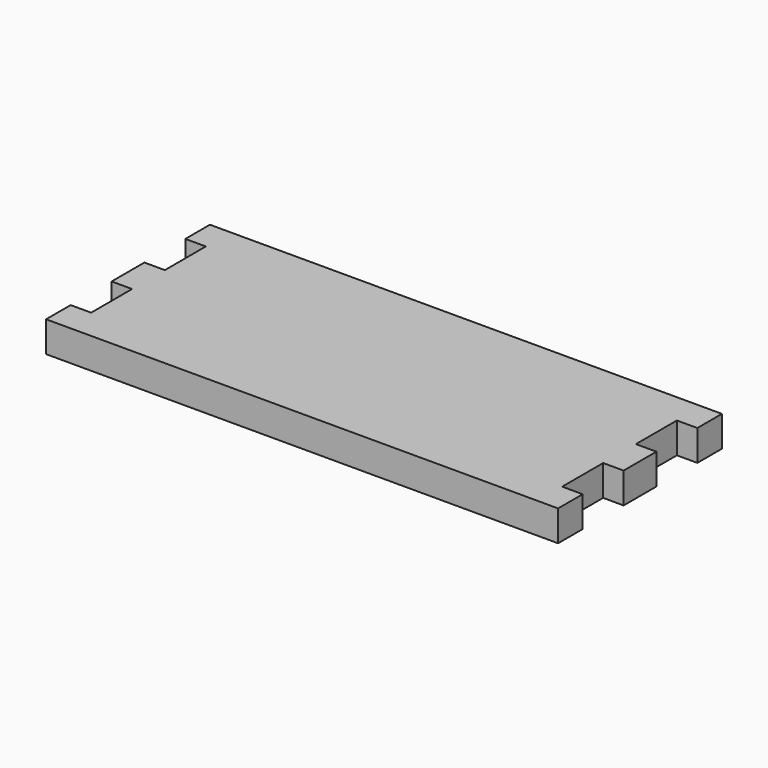
from build123d import *

# Parameters (mm, degrees)
F1_DEPTH = 3


with BuildPart() as f1:
    # F0 (on Top) → F1 (new body)
    with BuildSketch(Plane.XY):
        Polygon((25, 7), (25, 10), (-25, 10), (-25, 7), (-23, 7), (-23, 2), (-25, 2), (-25, 0), (-25, -2), (-23, -2), (-23, -7), (-25, -7), (-25, -10), (25, -10), (25, -7), (23, -7), (23, -2), (25, -2), (25, 0), (25, 2), (23, 2), (23, 7), align=None)
    extrude(amount=F1_DEPTH)


solid = f1.part
